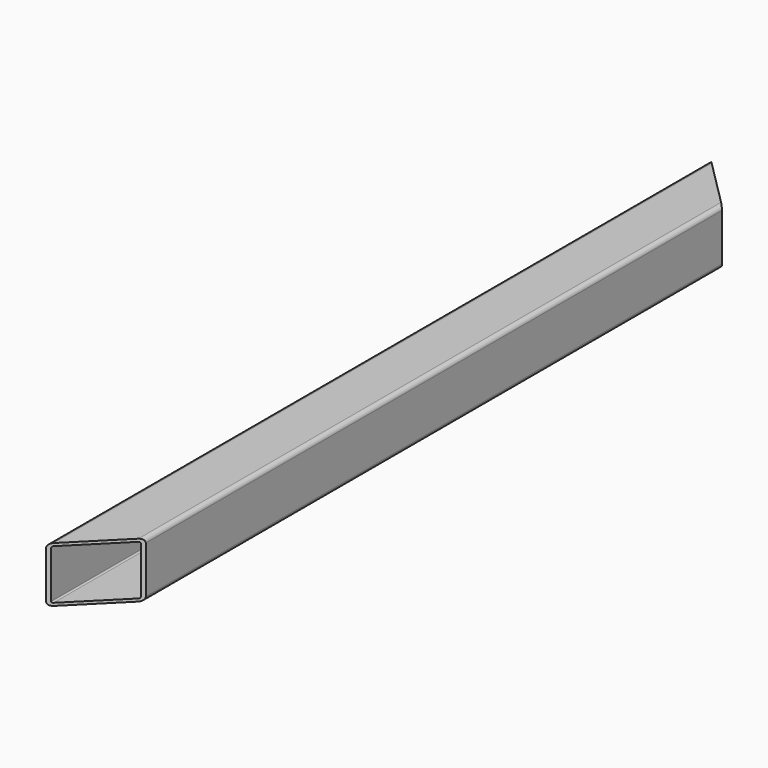
from build123d import *

# Parameters (mm, degrees)
F2_W     = 40
F2_H     = 40
F3_DEPTH = 300
F4_R     = 3
F5_T     = -2
F7_DEPTH = 40.001


with BuildPart() as f3:
    # F2 (on Front) → F3 (new body, symmetric)
    with BuildSketch(Plane.XZ):
        Rectangle(F2_W, F2_H)
    extrude(amount=F3_DEPTH, both=True)

    # F4
    f4_edges = [f3.edges().sort_by_distance(p)[0] for p in [
        (20, 0, 20),
        (-20, 0, 20),
        (20, 0, -20),
        (-20, 0, -20),
    ]]
    fillet(f4_edges, radius=F4_R)

    # F5
    f5_openings = [f3.faces().sort_by_distance(p)[0] for p in [
        (0, -300, 0),
        (0, 300, 0),
    ]]
    offset(amount=F5_T, openings=f5_openings)

    # F6 (on face) → F7 (cut, through all)
    with BuildSketch(Plane.XY.offset(20)):
        Polygon((20, -300), (20, -260), (-20, -300), align=None)
        Polygon((20, 300), (-20, 300), (20, 260), align=None)
    extrude(amount=-F7_DEPTH, mode=Mode.SUBTRACT)


solid = f3.part
